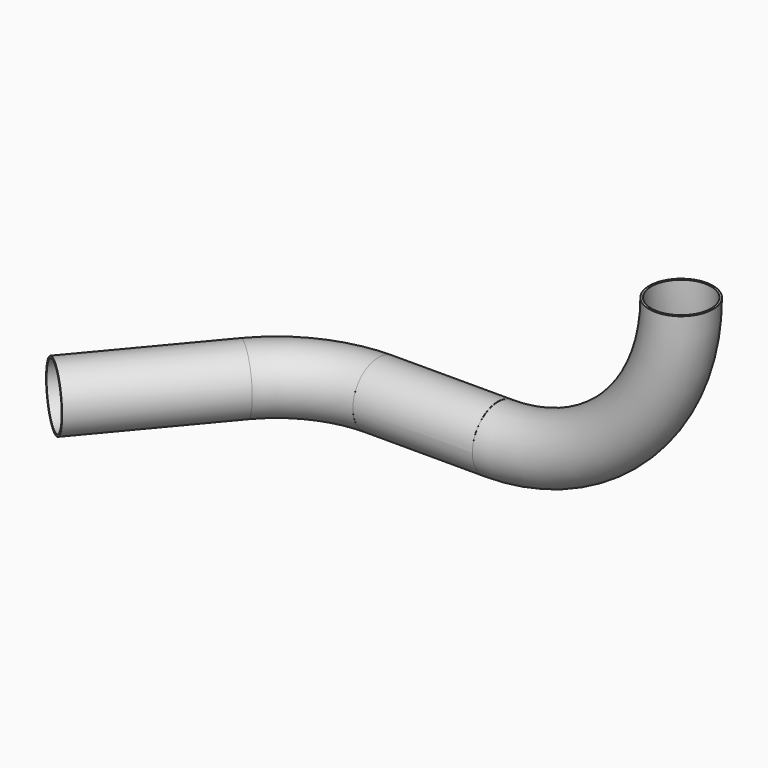
from build123d import *

# Parameters (mm, degrees)
F0_R      = 101.6
F0_R_2    = 95.25
F3_ANGLE  = 90
F4_R      = 101.6
F4_R_2    = 95.25
F5_DEPTH  = 381
F9_R      = 101.6
F9_R_2    = 95.25
F10_ANGLE = 50
F12_DEPTH = 482.6
F14_W     = 203.2
F14_H     = 152.4
F15_DEPTH = 233.934


with BuildPart() as f3:
    # F0 (on Top) → F3 (revolve)
    with BuildSketch(Plane.XY):
        Circle(F0_R)
        Circle(F0_R_2, mode=Mode.SUBTRACT)
    revolve(axis=Axis((-584.2, -210.4463875294, 0), (0, 1, 0)), revolution_arc=F3_ANGLE)

    # F4 (on line) → F5 (join)
    with BuildSketch(Plane(origin=(-584.2, 0, 0), x_dir=(0, -1, 0), z_dir=(-1, 0, 0))):
        with Locations((0, -583.7789177895)):
            Circle(F4_R)
        with Locations((0, -583.7789177895)):
            Circle(F4_R_2, mode=Mode.SUBTRACT)
    extrude(amount=F5_DEPTH)


with BuildPart() as f10:
    # F9 (on line) → F10 (revolve)
    with BuildSketch(Plane.YZ.offset(-965.2)):
        with Locations((0, -583.9824080467)):
            Circle(F9_R)
        with Locations((0, -583.9824080467)):
            Circle(F9_R_2, mode=Mode.SUBTRACT)
    revolve(axis=Axis((-965.2, -406.4379635355, -431.8284175472), (0, 0, 1)), revolution_arc=F10_ANGLE)


with BuildPart() as f12:
    # F12 (new): a face of the model
    f12_faces = [f10.part.faces().sort_by_distance(p)[0] for p in [
        (-1200.9207961138, -208.6447304555, -583.9824080467),
    ]]
    extrude(f12_faces, amount=F12_DEPTH)

    # F14 (on face) → F15 (cut)
    with BuildSketch(Plane(origin=(-677.6101368135, 568.5824158822, 0), x_dir=(0.6427876097, 0.7660444431, 0), z_dir=(0.7660444431, -0.6427876097, 0))):
        with Locations((-1051.1217788696, -584.187814045)):
            Rectangle(F14_W, F14_H)
    extrude(amount=-F15_DEPTH, mode=Mode.SUBTRACT)


solid = Compound([f3.part, f10.part, f12.part])
